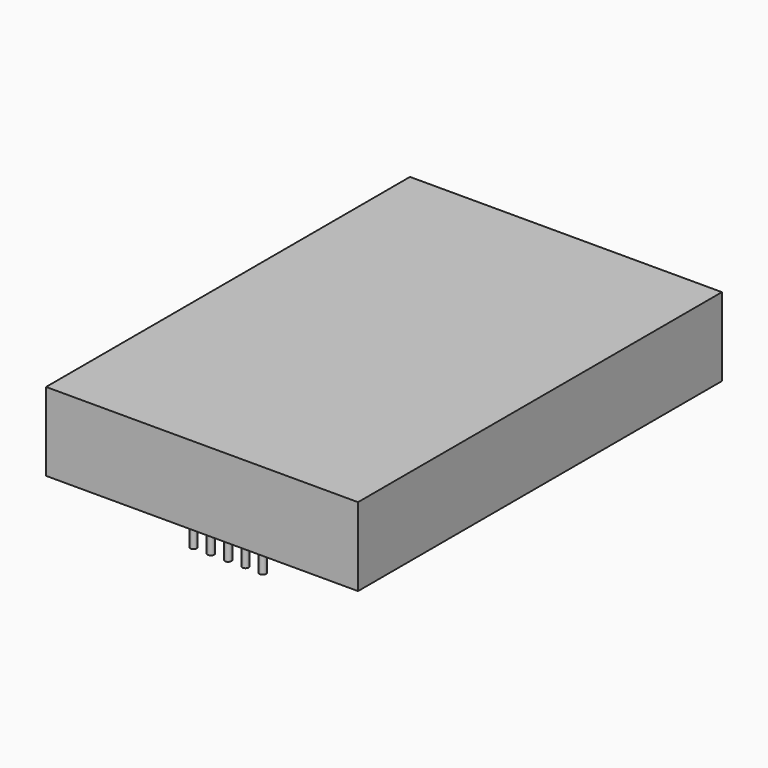
from build123d import *

# Parameters (mm, degrees)
SKETCH_W            = 47.8
SKETCH_H            = 69.7
PAD_DEPTH           = 12
SKETCH001_R         = 0.5
PAD001_DEPTH        = 5.6
LINEARPATTERN_COUNT = 5
LINEARPATTERN_PITCH = 2.65


with BuildPart() as part:
    # Sketch → Pad (new body)
    with BuildSketch(Plane.XY):
        with Locations((-7.772954, 16.789133)):
            Rectangle(SKETCH_W, SKETCH_H)
    extrude(amount=PAD_DEPTH)

    # Sketch001 → Pad001 (new body)
    with BuildSketch(Plane(origin=(0, 0, 0), x_dir=(1, 0, 0), z_dir=(0, 0, -1))):
        with Locations((-13.072954, 13.060867)):
            Circle(SKETCH001_R)
        with Locations((-13.072954, -46.639133)):
            Circle(SKETCH001_R)
    pad001 = extrude(amount=PAD001_DEPTH)

    # LinearPattern: Pad001 ×5
    with Locations(*[(i * LINEARPATTERN_PITCH, 0, 0) for i in range(1, LINEARPATTERN_COUNT)]):
        add(pad001)


solid = part.part
